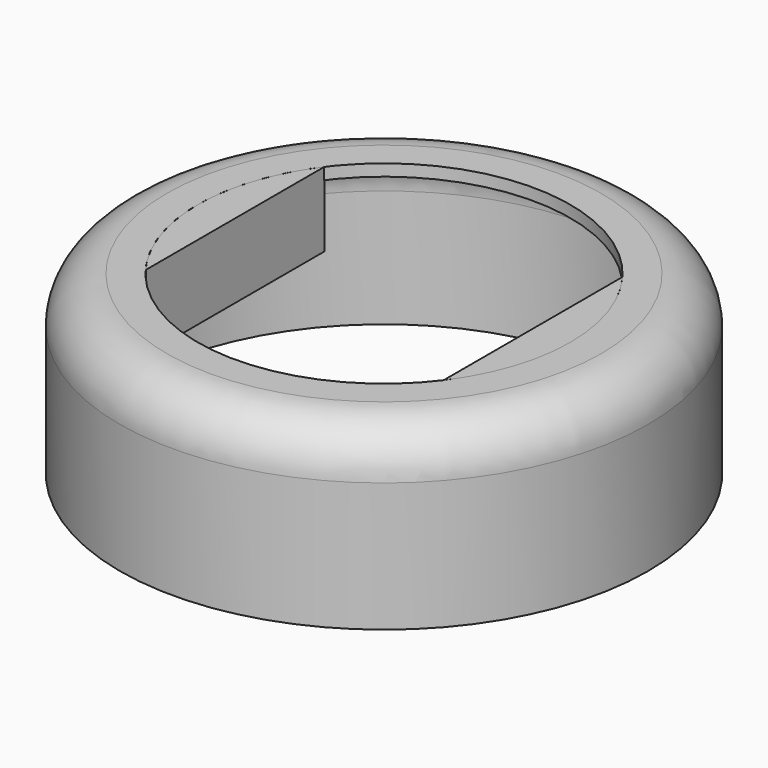
from build123d import *

# Parameters (mm, degrees)
F2_DEPTH = 3.175


with BuildPart() as f2:
    # F0 (on Top) → F2 (new body)
    with BuildSketch(Plane.XY):
        with BuildLine():
            Line((-6.35, -4.7625), (-6.35, 4.7625))
            ThreePointArc((-6.35, 4.7625), (-7.9375, 0), (-6.35, -4.7625))
        make_face()
    extrude(amount=-F2_DEPTH)


with BuildPart() as f3_1:
    # F3: instance of F2
    add(f2.part.mirror(Plane.YZ))


with BuildPart() as f4:
    # F1 (on Front) → F4 (revolve)
    with BuildSketch(Plane.XZ):
        with BuildLine():
            Line((9.25, 0), (7.9375, 0))
            Line((7.9375, 0), (7.9375, -0.5))
            Line((7.9375, -0.5), (8.75, -0.5))
            ThreePointArc((8.75, -0.5), (10.164214, -1.085786), (10.75, -2.5))
            Line((10.75, -2.5), (10.75, -7.5))
            Line((10.75, -7.5), (11.25, -7.5))
            Line((11.25, -7.5), (11.25, -2))
            ThreePointArc((11.25, -2), (10.664214, -0.585786), (9.25, 0))
        make_face()
    revolve(axis=Axis((0, 0, -3.75), (0, 0, -1)))


solid = Compound([f2.part, f3_1.part, f4.part])
